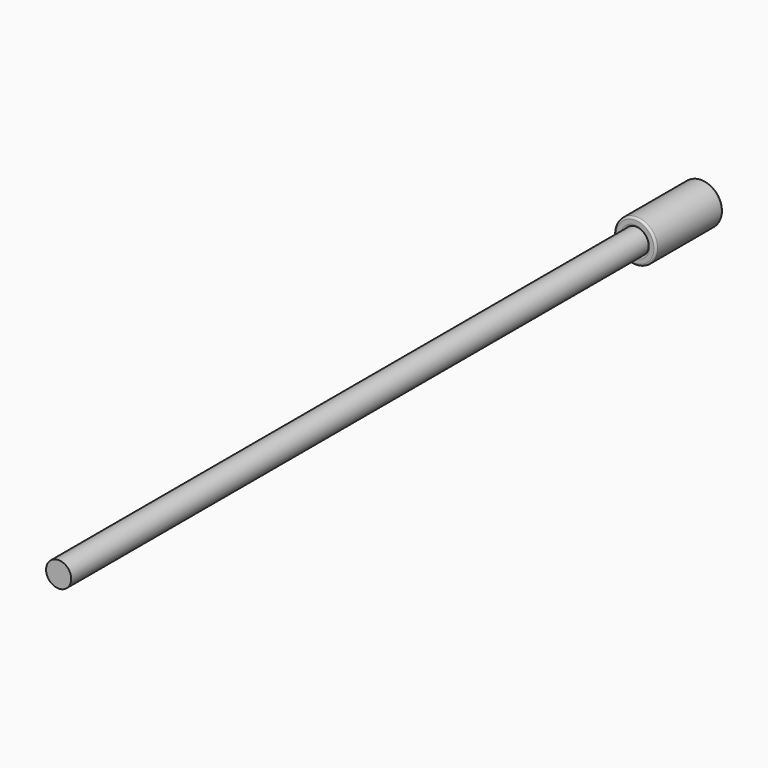
from build123d import *

# Parameters (mm, degrees)
F0_R     = 7.9375
F1_DEPTH = 31.75
F2_R     = 4.7625
F3_DEPTH = 31.751
F4_R     = 0.79375
F5_R     = 4.7625
F6_DEPTH = 304.8


with BuildPart() as f1:
    # F0 (on Front) → F1 (new body)
    with BuildSketch(Plane.XZ):
        Circle(F0_R)
    extrude(amount=F1_DEPTH)

    # F2 (on face) → F3 (cut, through all)
    with BuildSketch(Plane.XZ.offset(31.75)):
        Circle(F2_R)
    extrude(amount=-F3_DEPTH, mode=Mode.SUBTRACT)

    # F4
    f4_edges = [f1.edges().sort_by_distance(p)[0] for p in [
        (-7.9375, -31.75, 0),
        (-4.7625, -31.75, 0),
        (-7.9375, 0, 0),
        (-4.7625, 0, 0),
    ]]
    fillet(f4_edges, radius=F4_R)


with BuildPart() as f6:
    # F5 (on Front) → F6 (new body)
    with BuildSketch(Plane.XZ):
        Circle(F5_R)
    extrude(amount=F6_DEPTH)


solid = Compound([f1.part, f6.part])
